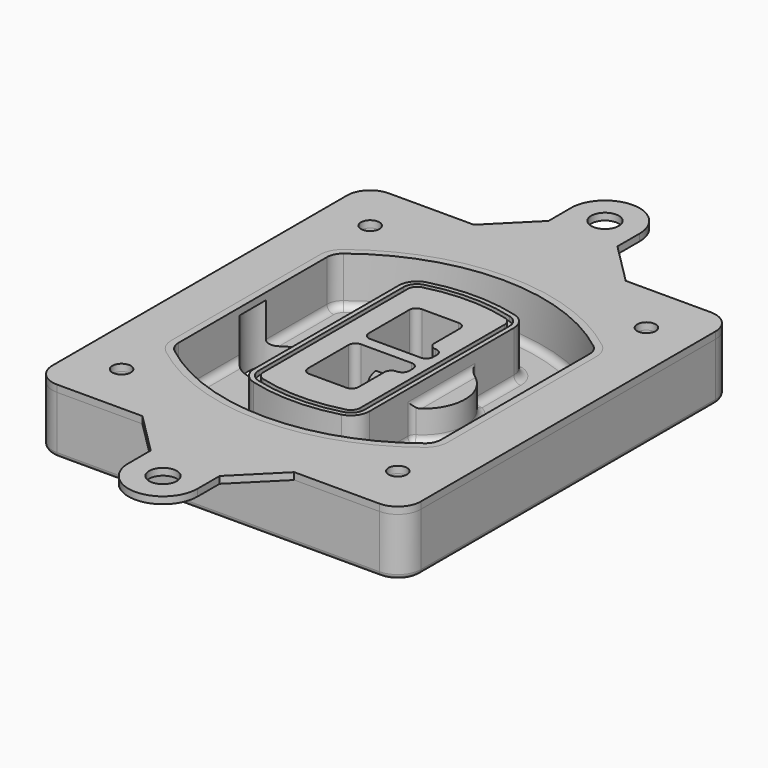
from build123d import *

# Parameters (mm, degrees)
F0_R      = 4
F1_DEPTH  = 25
F2_DEPTH  = 3
F3_DEPTH  = 18
F5_DEPTH  = 21
F6_DEPTH  = 2
F8_DEPTH  = 20
F9_DEPTH  = 16
F10_DEPTH = 25
F7_R      = 6
F7_R_2    = 4
F11_DEPTH = 6
F13_DEPTH = 9
F14_R     = 3
F15_R     = 2
F16_R     = 4
F16_R_2   = 6
F17_DEPTH = 3


with BuildPart() as f1:
    # F0 (on Top) → F1 (new body)
    with BuildSketch(Plane.XY):
        with BuildLine():
            ThreePointArc((-80, -80), (-77.0710678119, -87.0710678119), (-70, -90))
            Line((-70, -90), (70, -90))
            ThreePointArc((70, -90), (77.0710678119, -87.0710678119), (80, -80))
            Line((80, -80), (80, 80))
            ThreePointArc((80, 80), (77.0710678119, 87.0710678119), (70, 90))
            Line((70, 90), (-70, 90))
            ThreePointArc((-70, 90), (-77.0710678119, 87.0710678119), (-80, 80))
            Line((-80, 80), (-80, -80))
        make_face()
        with Locations((-60, -67.5)):
            Circle(F0_R, mode=Mode.SUBTRACT)
        with Locations((60, -67.5)):
            Circle(F0_R, mode=Mode.SUBTRACT)
        with Locations((-60, 67.5)):
            Circle(F0_R, mode=Mode.SUBTRACT)
        with BuildLine():
            ThreePointArc((-64, 40.2934422872), (-62.5820384798, 46.4328484224), (-58.6153846154, 51.3286200352))
            ThreePointArc((-58.6153846154, 51.3286200352), (0, 71.5), (58.6153846154, 51.3286200352))
            ThreePointArc((58.6153846154, 51.3286200352), (62.5820384798, 46.4328484224), (64, 40.2934422872))
            Line((64, 40.2934422872), (64, -40.2934422872))
            ThreePointArc((64, -40.2934422872), (62.5820384798, -46.4328484224), (58.6153846154, -51.3286200352))
            ThreePointArc((58.6153846154, -51.3286200352), (0, -71.5), (-58.6153846154, -51.3286200352))
            ThreePointArc((-58.6153846154, -51.3286200352), (-62.5820384798, -46.4328484224), (-64, -40.2934422872))
            Line((-64, -40.2934422872), (-64, 40.2934422872))
        make_face(mode=Mode.SUBTRACT)
        with Locations((60, 67.5)):
            Circle(F0_R, mode=Mode.SUBTRACT)
        with BuildLine():
            ThreePointArc((58.6153846154, 51.3286200352), (0, 71.5), (-58.6153846154, 51.3286200352))
            ThreePointArc((-58.6153846154, 51.3286200352), (-62.5820384798, 46.4328484224), (-64, 40.2934422872))
            Line((-64, 40.2934422872), (-64, -40.2934422872))
            ThreePointArc((-64, -40.2934422872), (-62.5820384798, -46.4328484224), (-58.6153846154, -51.3286200352))
            ThreePointArc((-58.6153846154, -51.3286200352), (0, -71.5), (58.6153846154, -51.3286200352))
            ThreePointArc((58.6153846154, -51.3286200352), (62.5820384798, -46.4328484224), (64, -40.2934422872))
            Line((64, -40.2934422872), (64, 40.2934422872))
            ThreePointArc((64, 40.2934422872), (62.5820384798, 46.4328484224), (58.6153846154, 51.3286200352))
        make_face()
        with BuildLine():
            Line((-60, -40.2934422872), (-60, 40.2934422872))
            ThreePointArc((-60, 40.2934422872), (-58.9871703427, 44.6787323838), (-56.1538461538, 48.1757121072))
            ThreePointArc((-56.1538461538, 48.1757121072), (0, 67.5), (56.1538461538, 48.1757121072))
            ThreePointArc((56.1538461538, 48.1757121072), (58.9871703427, 44.6787323838), (60, 40.2934422872))
            Line((60, 40.2934422872), (60, -40.2934422872))
            ThreePointArc((60, -40.2934422872), (58.9871703427, -44.6787323838), (56.1538461538, -48.1757121072))
            ThreePointArc((56.1538461538, -48.1757121072), (0, -67.5), (-56.1538461538, -48.1757121072))
            ThreePointArc((-56.1538461538, -48.1757121072), (-58.9871703427, -44.6787323838), (-60, -40.2934422872))
        make_face(mode=Mode.SUBTRACT)
        with BuildLine():
            ThreePointArc((-56.1538461538, 48.1757121072), (-58.9871703427, 44.6787323838), (-60, 40.2934422872))
            Line((-60, 40.2934422872), (-60, -40.2934422872))
            ThreePointArc((-60, -40.2934422872), (-58.9871703427, -44.6787323838), (-56.1538461538, -48.1757121072))
            ThreePointArc((-56.1538461538, -48.1757121072), (0, -67.5), (56.1538461538, -48.1757121072))
            ThreePointArc((56.1538461538, -48.1757121072), (58.9871703427, -44.6787323838), (60, -40.2934422872))
            Line((60, -40.2934422872), (60, 40.2934422872))
            ThreePointArc((60, 40.2934422872), (58.9871703427, 44.6787323838), (56.1538461538, 48.1757121072))
            ThreePointArc((56.1538461538, 48.1757121072), (0, 67.5), (-56.1538461538, 48.1757121072))
        make_face()
        with BuildLine():
            ThreePointArc((54.3076923077, 45.8110311612), (56.2910192399, 43.3631453548), (57, 40.2934422872))
            Line((57, 40.2934422872), (57, -40.2934422872))
            ThreePointArc((57, -40.2934422872), (56.2910192399, -43.3631453548), (54.3076923077, -45.8110311612))
            ThreePointArc((54.3076923077, -45.8110311612), (0, -64.5), (-54.3076923077, -45.8110311612))
            ThreePointArc((-54.3076923077, -45.8110311612), (-56.2910192399, -43.3631453548), (-57, -40.2934422872))
            Line((-57, -40.2934422872), (-57, 40.2934422872))
            ThreePointArc((-57, 40.2934422872), (-56.2910192399, 43.3631453548), (-54.3076923077, 45.8110311612))
            ThreePointArc((-54.3076923077, 45.8110311612), (0, 64.5), (54.3076923077, 45.8110311612))
        make_face(mode=Mode.SUBTRACT)
        with BuildLine():
            Line((57, -40.2934422872), (57, 40.2934422872))
            ThreePointArc((57, 40.2934422872), (56.2910192399, 43.3631453548), (54.3076923077, 45.8110311612))
            ThreePointArc((54.3076923077, 45.8110311612), (0, 64.5), (-54.3076923077, 45.8110311612))
            ThreePointArc((-54.3076923077, 45.8110311612), (-56.2910192399, 43.3631453548), (-57, 40.2934422872))
            Line((-57, 40.2934422872), (-57, -40.2934422872))
            ThreePointArc((-57, -40.2934422872), (-56.2910192399, -43.3631453548), (-54.3076923077, -45.8110311612))
            ThreePointArc((-54.3076923077, -45.8110311612), (0, -64.5), (54.3076923077, -45.8110311612))
            ThreePointArc((54.3076923077, -45.8110311612), (56.2910192399, -43.3631453548), (57, -40.2934422872))
        make_face()
    extrude(amount=-F1_DEPTH)

    # F0 (on Top) → F2 (join)
    with BuildSketch(Plane.XY):
        with BuildLine():
            ThreePointArc((-56.1538461538, 48.1757121072), (-58.9871703427, 44.6787323838), (-60, 40.2934422872))
            Line((-60, 40.2934422872), (-60, -40.2934422872))
            ThreePointArc((-60, -40.2934422872), (-58.9871703427, -44.6787323838), (-56.1538461538, -48.1757121072))
            ThreePointArc((-56.1538461538, -48.1757121072), (0, -67.5), (56.1538461538, -48.1757121072))
            ThreePointArc((56.1538461538, -48.1757121072), (58.9871703427, -44.6787323838), (60, -40.2934422872))
            Line((60, -40.2934422872), (60, 40.2934422872))
            ThreePointArc((60, 40.2934422872), (58.9871703427, 44.6787323838), (56.1538461538, 48.1757121072))
            ThreePointArc((56.1538461538, 48.1757121072), (0, 67.5), (-56.1538461538, 48.1757121072))
        make_face()
        with BuildLine():
            ThreePointArc((54.3076923077, 45.8110311612), (56.2910192399, 43.3631453548), (57, 40.2934422872))
            Line((57, 40.2934422872), (57, -40.2934422872))
            ThreePointArc((57, -40.2934422872), (56.2910192399, -43.3631453548), (54.3076923077, -45.8110311612))
            ThreePointArc((54.3076923077, -45.8110311612), (0, -64.5), (-54.3076923077, -45.8110311612))
            ThreePointArc((-54.3076923077, -45.8110311612), (-56.2910192399, -43.3631453548), (-57, -40.2934422872))
            Line((-57, -40.2934422872), (-57, 40.2934422872))
            ThreePointArc((-57, 40.2934422872), (-56.2910192399, 43.3631453548), (-54.3076923077, 45.8110311612))
            ThreePointArc((-54.3076923077, 45.8110311612), (0, 64.5), (54.3076923077, 45.8110311612))
        make_face(mode=Mode.SUBTRACT)
    extrude(amount=F2_DEPTH)

    # F0 (on Top) → F3 (cut)
    with BuildSketch(Plane.XY):
        with BuildLine():
            Line((57, -40.2934422872), (57, 40.2934422872))
            ThreePointArc((57, 40.2934422872), (56.2910192399, 43.3631453548), (54.3076923077, 45.8110311612))
            ThreePointArc((54.3076923077, 45.8110311612), (0, 64.5), (-54.3076923077, 45.8110311612))
            ThreePointArc((-54.3076923077, 45.8110311612), (-56.2910192399, 43.3631453548), (-57, 40.2934422872))
            Line((-57, 40.2934422872), (-57, -40.2934422872))
            ThreePointArc((-57, -40.2934422872), (-56.2910192399, -43.3631453548), (-54.3076923077, -45.8110311612))
            ThreePointArc((-54.3076923077, -45.8110311612), (0, -64.5), (54.3076923077, -45.8110311612))
            ThreePointArc((54.3076923077, -45.8110311612), (56.2910192399, -43.3631453548), (57, -40.2934422872))
        make_face()
    extrude(amount=-F3_DEPTH, mode=Mode.SUBTRACT)

    # F4 (on face) → F5 (join, through all)
    with BuildSketch(Plane.XY.offset(3)):
        with BuildLine():
            ThreePointArc((-25, -39.2465276821), (-23.3511545998, -44.1109737193), (-19.0842911877, -46.9702398883))
            ThreePointArc((-19.0842911877, -46.9702398883), (0, -49.5), (19.0842911877, -46.9702398883))
            ThreePointArc((19.0842911877, -46.9702398883), (23.3511545998, -44.1109737193), (25, -39.2465276821))
            Line((25, -39.2465276821), (25, 39.2465276821))
            ThreePointArc((25, 39.2465276821), (23.3511545998, 44.1109737193), (19.0842911877, 46.9702398883))
            ThreePointArc((19.0842911877, 46.9702398883), (0, 49.5), (-19.0842911877, 46.9702398883))
            ThreePointArc((-19.0842911877, 46.9702398883), (-23.3511545998, 44.1109737193), (-25, 39.2465276821))
            Line((-25, 39.2465276821), (-25, -39.2465276821))
        make_face()
        with BuildLine():
            ThreePointArc((18.5632183908, 45.0393118368), (21.7633659499, 42.89486221), (23, 39.2465276821))
            Line((23, 39.2465276821), (23, -39.2465276821))
            ThreePointArc((23, -39.2465276821), (21.7633659499, -42.89486221), (18.5632183908, -45.0393118368))
            ThreePointArc((18.5632183908, -45.0393118368), (0, -47.5), (-18.5632183908, -45.0393118368))
            ThreePointArc((-18.5632183908, -45.0393118368), (-21.7633659499, -42.89486221), (-23, -39.2465276821))
            Line((-23, -39.2465276821), (-23, 39.2465276821))
            ThreePointArc((-23, 39.2465276821), (-21.7633659499, 42.89486221), (-18.5632183908, 45.0393118368))
            ThreePointArc((-18.5632183908, 45.0393118368), (0, 47.5), (18.5632183908, 45.0393118368))
        make_face(mode=Mode.SUBTRACT)
        with BuildLine():
            Line((23, -39.2465276821), (23, 39.2465276821))
            ThreePointArc((23, 39.2465276821), (21.7633659499, 42.89486221), (18.5632183908, 45.0393118368))
            ThreePointArc((18.5632183908, 45.0393118368), (0, 47.5), (-18.5632183908, 45.0393118368))
            ThreePointArc((-18.5632183908, 45.0393118368), (-21.7633659499, 42.89486221), (-23, 39.2465276821))
            Line((-23, 39.2465276821), (-23, -39.2465276821))
            ThreePointArc((-23, -39.2465276821), (-21.7633659499, -42.89486221), (-18.5632183908, -45.0393118368))
            ThreePointArc((-18.5632183908, -45.0393118368), (0, -47.5), (18.5632183908, -45.0393118368))
            ThreePointArc((18.5632183908, -45.0393118368), (21.7633659499, -42.89486221), (23, -39.2465276821))
        make_face()
        with BuildLine():
            ThreePointArc((18.0421455939, 43.1083837852), (20.1755772999, 41.6787507007), (21, 39.2465276821))
            Line((21, 39.2465276821), (21, -39.2465276821))
            ThreePointArc((21, -39.2465276821), (20.1755772999, -41.6787507007), (18.0421455939, -43.1083837852))
            ThreePointArc((18.0421455939, -43.1083837852), (0, -45.5), (-18.0421455939, -43.1083837852))
            ThreePointArc((-18.0421455939, -43.1083837852), (-20.1755772999, -41.6787507007), (-21, -39.2465276821))
            Line((-21, -39.2465276821), (-21, 39.2465276821))
            ThreePointArc((-21, 39.2465276821), (-20.1755772999, 41.6787507007), (-18.0421455939, 43.1083837852))
            ThreePointArc((-18.0421455939, 43.1083837852), (0, 45.5), (18.0421455939, 43.1083837852))
        make_face(mode=Mode.SUBTRACT)
        with BuildLine():
            Line((21, -39.2465276821), (21, 39.2465276821))
            ThreePointArc((21, 39.2465276821), (20.1755772999, 41.6787507007), (18.0421455939, 43.1083837852))
            ThreePointArc((18.0421455939, 43.1083837852), (0, 45.5), (-18.0421455939, 43.1083837852))
            ThreePointArc((-18.0421455939, 43.1083837852), (-20.1755772999, 41.6787507007), (-21, 39.2465276821))
            Line((-21, 39.2465276821), (-21, -39.2465276821))
            ThreePointArc((-21, -39.2465276821), (-20.1755772999, -41.6787507007), (-18.0421455939, -43.1083837852))
            ThreePointArc((-18.0421455939, -43.1083837852), (0, -45.5), (18.0421455939, -43.1083837852))
            ThreePointArc((18.0421455939, -43.1083837852), (20.1755772999, -41.6787507007), (21, -39.2465276821))
        make_face()
        with BuildLine():
            Line((-8, -2.5), (14, -2.5))
            ThreePointArc((14, -2.5), (16.1213203436, -3.3786796564), (17, -5.5))
            Line((17, -5.5), (17, -7.5))
            ThreePointArc((17, -7.5), (16.1213203436, -9.6213203436), (14, -10.5))
            ThreePointArc((14, -10.5), (11.8786796564, -11.3786796564), (11, -13.5))
            Line((11, -13.5), (11, -27.5))
            ThreePointArc((11, -27.5), (10.1213203436, -29.6213203436), (8, -30.5))
            Line((8, -30.5), (-8, -30.5))
            ThreePointArc((-8, -30.5), (-10.1213203436, -29.6213203436), (-11, -27.5))
            Line((-11, -27.5), (-11, -5.5))
            ThreePointArc((-11, -5.5), (-10.1213203436, -3.3786796564), (-8, -2.5))
        make_face(mode=Mode.SUBTRACT)
        with BuildLine():
            ThreePointArc((-8, 2.5), (-10.1213203436, 3.3786796564), (-11, 5.5))
            Line((-11, 5.5), (-11, 27.5))
            ThreePointArc((-11, 27.5), (-10.1213203436, 29.6213203436), (-8, 30.5))
            Line((-8, 30.5), (8, 30.5))
            ThreePointArc((8, 30.5), (10.1213203436, 29.6213203436), (11, 27.5))
            Line((11, 27.5), (11, 13.5))
            ThreePointArc((11, 13.5), (11.8786796564, 11.3786796564), (14, 10.5))
            ThreePointArc((14, 10.5), (16.1213203436, 9.6213203436), (17, 7.5))
            Line((17, 7.5), (17, 5.5))
            ThreePointArc((17, 5.5), (16.1213203436, 3.3786796564), (14, 2.5))
            Line((14, 2.5), (-8, 2.5))
        make_face(mode=Mode.SUBTRACT)
    extrude(amount=-F5_DEPTH)

    # F4 (on face) → F6 (cut)
    with BuildSketch(Plane.XY.offset(3)):
        with BuildLine():
            Line((23, -39.2465276821), (23, 39.2465276821))
            ThreePointArc((23, 39.2465276821), (21.7633659499, 42.89486221), (18.5632183908, 45.0393118368))
            ThreePointArc((18.5632183908, 45.0393118368), (0, 47.5), (-18.5632183908, 45.0393118368))
            ThreePointArc((-18.5632183908, 45.0393118368), (-21.7633659499, 42.89486221), (-23, 39.2465276821))
            Line((-23, 39.2465276821), (-23, -39.2465276821))
            ThreePointArc((-23, -39.2465276821), (-21.7633659499, -42.89486221), (-18.5632183908, -45.0393118368))
            ThreePointArc((-18.5632183908, -45.0393118368), (0, -47.5), (18.5632183908, -45.0393118368))
            ThreePointArc((18.5632183908, -45.0393118368), (21.7633659499, -42.89486221), (23, -39.2465276821))
        make_face()
        with BuildLine():
            ThreePointArc((18.0421455939, 43.1083837852), (20.1755772999, 41.6787507007), (21, 39.2465276821))
            Line((21, 39.2465276821), (21, -39.2465276821))
            ThreePointArc((21, -39.2465276821), (20.1755772999, -41.6787507007), (18.0421455939, -43.1083837852))
            ThreePointArc((18.0421455939, -43.1083837852), (0, -45.5), (-18.0421455939, -43.1083837852))
            ThreePointArc((-18.0421455939, -43.1083837852), (-20.1755772999, -41.6787507007), (-21, -39.2465276821))
            Line((-21, -39.2465276821), (-21, 39.2465276821))
            ThreePointArc((-21, 39.2465276821), (-20.1755772999, 41.6787507007), (-18.0421455939, 43.1083837852))
            ThreePointArc((-18.0421455939, 43.1083837852), (0, 45.5), (18.0421455939, 43.1083837852))
        make_face(mode=Mode.SUBTRACT)
    extrude(amount=-F6_DEPTH, mode=Mode.SUBTRACT)

    # F7 (on face) → F8 (join)
    with BuildSketch(Plane(origin=(0, 0, -25), x_dir=(1, 0, 0), z_dir=(0, 0, -1))):
        with BuildLine():
            ThreePointArc((3.28842436, 0), (16.7567035675, 13.4682792075), (30.224982775, 0))
            Line((30.224982775, 0), (35.224982775, 0))
            ThreePointArc((35.224982775, 0), (16.7567035675, 18.4682792075), (-1.71157564, 0))
            Line((-1.71157564, 0), (3.28842436, 0))
        make_face()
        with BuildLine():
            Line((3.28842436, 0), (30.224982775, 0))
            ThreePointArc((30.224982775, 0), (16.7567035675, 13.4682792075), (3.28842436, 0))
        make_face()
        with BuildLine():
            ThreePointArc((3.28842436, 0), (16.7567035675, -13.4682792075), (30.224982775, 0))
            Line((30.224982775, 0), (3.28842436, 0))
        make_face()
        with BuildLine():
            Line((35.224982775, 0), (30.224982775, 0))
            ThreePointArc((30.224982775, 0), (16.7567035675, -13.4682792075), (3.28842436, 0))
            Line((3.28842436, 0), (-1.71157564, 0))
            ThreePointArc((-1.71157564, 0), (16.7567035675, -18.4682792075), (35.224982775, 0))
        make_face()
    extrude(amount=-F8_DEPTH)

    # F7 (on face) → F9 (cut)
    with BuildSketch(Plane(origin=(0, 0, -25), x_dir=(1, 0, 0), z_dir=(0, 0, -1))):
        with BuildLine():
            Line((3.28842436, 0), (30.224982775, 0))
            ThreePointArc((30.224982775, 0), (16.7567035675, 13.4682792075), (3.28842436, 0))
        make_face()
        with BuildLine():
            ThreePointArc((3.28842436, 0), (16.7567035675, -13.4682792075), (30.224982775, 0))
            Line((30.224982775, 0), (3.28842436, 0))
        make_face()
    extrude(amount=-F9_DEPTH, mode=Mode.SUBTRACT)

    # F7 (on face) → F10 (cut)
    with BuildSketch(Plane(origin=(0, 0, -25), x_dir=(1, 0, 0), z_dir=(0, 0, -1))):
        with BuildLine():
            Line((-59.0318229325, 0), (-32.0952645175, 0))
            ThreePointArc((-32.0952645175, 0), (-45.563543725, 13.4682792075), (-59.0318229325, 0))
        make_face()
        with BuildLine():
            ThreePointArc((-59.0318229325, 0), (-45.563543725, -13.4682792075), (-32.0952645175, 0))
            Line((-32.0952645175, 0), (-59.0318229325, 0))
        make_face()
    extrude(amount=-F10_DEPTH, mode=Mode.SUBTRACT)

    # F7 (on face) → F11 (cut)
    with BuildSketch(Plane(origin=(0, 0, -25), x_dir=(1, 0, 0), z_dir=(0, 0, -1))):
        with Locations((60, -67.5)):
            Circle(F7_R)
        with Locations((60, -67.5)):
            Circle(F7_R_2, mode=Mode.SUBTRACT)
        with Locations((60, -67.5)):
            Circle(F7_R)
        with Locations((60, -67.5)):
            Circle(F7_R_2, mode=Mode.SUBTRACT)
        with Locations((-60, -67.5)):
            Circle(F7_R)
        with Locations((-60, -67.5)):
            Circle(F7_R_2, mode=Mode.SUBTRACT)
        with Locations((-60, -67.5)):
            Circle(F7_R)
        with Locations((-60, -67.5)):
            Circle(F7_R_2, mode=Mode.SUBTRACT)
        with Locations((-60, 67.5)):
            Circle(F7_R)
        with Locations((-60, 67.5)):
            Circle(F7_R_2, mode=Mode.SUBTRACT)
        with Locations((-60, 67.5)):
            Circle(F7_R)
        with Locations((-60, 67.5)):
            Circle(F7_R_2, mode=Mode.SUBTRACT)
        with Locations((60, 67.5)):
            Circle(F7_R)
        with Locations((60, 67.5)):
            Circle(F7_R_2, mode=Mode.SUBTRACT)
        with Locations((60, 67.5)):
            Circle(F7_R)
        with Locations((60, 67.5)):
            Circle(F7_R_2, mode=Mode.SUBTRACT)
    extrude(amount=-F11_DEPTH, mode=Mode.SUBTRACT)

    # F12 (on face) → F13 (cut, through all)
    with BuildSketch(Plane(origin=(0, 0, -9), x_dir=(1, 0, 0), z_dir=(0, 0, -1))):
        with BuildLine():
            Line((11, 13.5), (11, 17.5481537753))
            ThreePointArc((11, 17.5481537753), (2.5696536419, 11.8239143813), (-1.5415842455, 2.5))
            Line((-1.5415842455, 2.5), (3.5224848595, 2.5))
            ThreePointArc((3.5224848595, 2.5), (6.1857188154, 8.3455872281), (11.2536447004, 12.2927168648))
            ThreePointArc((11.2536447004, 12.2927168648), (11.0640958889, 12.8831798879), (11, 13.5))
        make_face()
        with BuildLine():
            ThreePointArc((11.2536447004, -12.2927168648), (6.1857188154, -8.3455872281), (3.5224848595, -2.5))
            Line((3.5224848595, -2.5), (-1.5415842455, -2.5))
            ThreePointArc((-1.5415842455, -2.5), (2.5696536419, -11.8239143813), (11, -17.5481537753))
            Line((11, -17.5481537753), (11, -13.5))
            ThreePointArc((11, -13.5), (11.0640958889, -12.8831798879), (11.2536447004, -12.2927168648))
        make_face()
        with BuildLine():
            ThreePointArc((11.2536447004, 12.2927168648), (6.1857188154, 8.3455872281), (3.5224848595, 2.5))
            Line((3.5224848595, 2.5), (14, 2.5))
            ThreePointArc((14, 2.5), (16.1213203436, 3.3786796564), (17, 5.5))
            Line((17, 5.5), (17, 7.5))
            ThreePointArc((17, 7.5), (16.1213203436, 9.6213203436), (14, 10.5))
            ThreePointArc((14, 10.5), (12.3601599782, 10.9878446101), (11.2536447004, 12.2927168648))
        make_face()
        with BuildLine():
            Line((14, -2.5), (3.5224848595, -2.5))
            ThreePointArc((3.5224848595, -2.5), (6.1857188154, -8.3455872281), (11.2536447004, -12.2927168648))
            ThreePointArc((11.2536447004, -12.2927168648), (12.3601599782, -10.9878446101), (14, -10.5))
            ThreePointArc((14, -10.5), (16.1213203436, -9.6213203436), (17, -7.5))
            Line((17, -7.5), (17, -5.5))
            ThreePointArc((17, -5.5), (16.1213203436, -3.3786796564), (14, -2.5))
        make_face()
    extrude(amount=F13_DEPTH, mode=Mode.SUBTRACT)

    # F14
    f14_edges = [f1.edges().sort_by_distance(p)[0] for p in [
        (-57, -23.703476, -18),
        (-57, 23.703476, -18),
        (25, 0, -5),
        (25, 16.526506, -11.5),
        (25, -16.526506, -11.5),
        (25, -27.886517, -18),
        (35.224983, 0, -18),
    ]]
    fillet(f14_edges, radius=F14_R)

    # F15
    f15_edges = [f1.edges().sort_by_distance(p)[0] for p in [
        (0, -90, -25),
    ]]
    fillet(f15_edges, radius=F15_R)


with BuildPart() as f17:
    # F16 (on face) → F17 (new body, through all)
    with BuildSketch(Plane.XY):
        with BuildLine():
            Line((70, 90), (33, 90))
            Line((33, 90), (-32.9383362921, 90))
            Line((-32.9383362921, 90), (-70, 90))
            ThreePointArc((-70, 90), (-77.0710678119, 87.0710678119), (-80, 80))
            Line((-80, 80), (-80, -80))
            ThreePointArc((-80, -80), (-77.0710678119, -87.0710678119), (-70, -90))
            Line((-70, -90), (-32.9383362921, -90))
            Line((-32.9383362921, -90), (33, -90))
            Line((33, -90), (70, -90))
            ThreePointArc((70, -90), (77.0710678119, -87.0710678119), (80, -80))
            Line((80, -80), (80, 80))
            ThreePointArc((80, 80), (77.0710678119, 87.0710678119), (70, 90))
        make_face()
        with Locations((-60, -67.5)):
            Circle(F16_R, mode=Mode.SUBTRACT)
        with Locations((60, -67.5)):
            Circle(F16_R, mode=Mode.SUBTRACT)
        with Locations((-60, 67.5)):
            Circle(F16_R, mode=Mode.SUBTRACT)
        with BuildLine():
            ThreePointArc((-60, 40.2934422872), (-58.9871703427, 44.6787323838), (-56.1538461538, 48.1757121072))
            ThreePointArc((-56.1538461538, 48.1757121072), (0, 67.5), (56.1538461538, 48.1757121072))
            ThreePointArc((56.1538461538, 48.1757121072), (58.9871703427, 44.6787323838), (60, 40.2934422872))
            Line((60, 40.2934422872), (60, -40.2934422872))
            ThreePointArc((60, -40.2934422872), (58.9871703427, -44.6787323838), (56.1538461538, -48.1757121072))
            ThreePointArc((56.1538461538, -48.1757121072), (0, -67.5), (-56.1538461538, -48.1757121072))
            ThreePointArc((-56.1538461538, -48.1757121072), (-58.9871703427, -44.6787323838), (-60, -40.2934422872))
            Line((-60, -40.2934422872), (-60, 40.2934422872))
        make_face(mode=Mode.SUBTRACT)
        with Locations((60, 67.5)):
            Circle(F16_R, mode=Mode.SUBTRACT)
        with BuildLine():
            Line((15, -108), (33, -90))
            Line((33, -90), (-32.9383362921, -90))
            Line((-32.9383362921, -90), (-14.9383362921, -108))
            Line((-14.9383362921, -108), (-14.9383362921, -121.3587158736))
            ThreePointArc((-14.9383362921, -121.3587158736), (0.6800572105, -134.9845761432), (15, -120))
            Line((15, -120), (15, -108))
        make_face()
        with Locations((0, -120)):
            Circle(F16_R_2, mode=Mode.SUBTRACT)
        with BuildLine():
            Line((15, 108), (15, 120))
            ThreePointArc((15, 120), (0.6800572105, 134.9845761432), (-14.9383362921, 121.3587158736))
            Line((-14.9383362921, 121.3587158736), (-14.9383362921, 108))
            Line((-14.9383362921, 108), (-32.9383362921, 90))
            Line((-32.9383362921, 90), (33, 90))
            Line((33, 90), (15, 108))
        make_face()
        with Locations((0, 120)):
            Circle(F16_R_2, mode=Mode.SUBTRACT)
    extrude(amount=F17_DEPTH)


solid = Compound([f1.part, f17.part])
